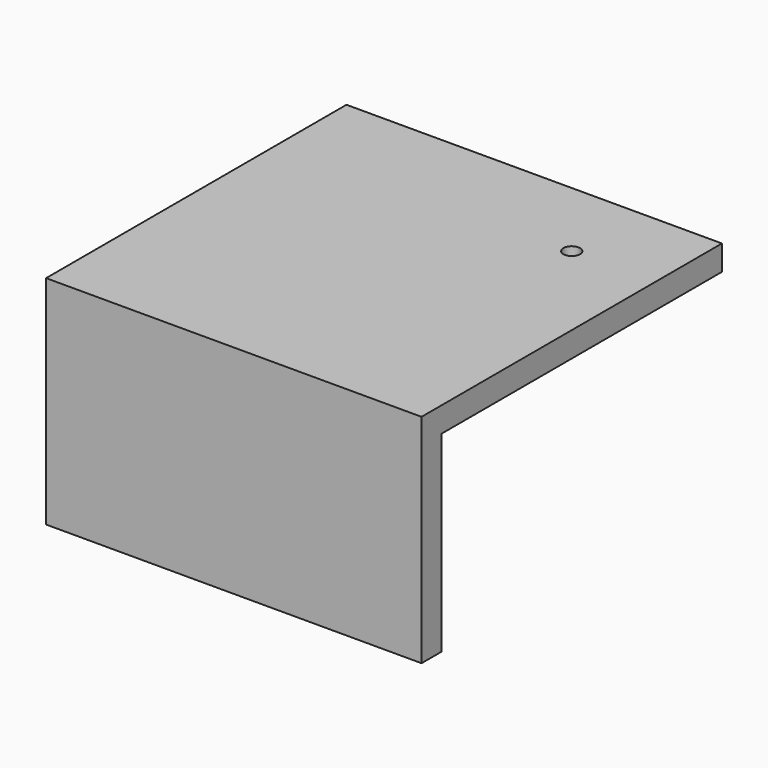
from build123d import *

# Parameters (mm, degrees)
SKETCH001_W  = 42
SKETCH001_H  = 42
PAD001_DEPTH = 26
SKETCH_W     = 45
SKETCH_H     = 45
PAD_DEPTH    = 26
SKETCH002_R  = 1
POCKET_DEPTH = 26.001


with BuildPart() as obj1:
    # Sketch001 → Pad001 (new body)
    with BuildSketch(Plane.XY):
        with Locations((21, 21)):
            Rectangle(SKETCH001_W, SKETCH001_H)
    extrude(amount=PAD001_DEPTH)


with BuildPart() as obj1_1:
    # Body001 placement: moved
    add(obj1.part.moved(Location((3, 3, -3))))


with BuildPart() as obj2:
    # Sketch → Pad (new body)
    with BuildSketch(Plane.XY):
        with Locations((22.5, 22.5)):
            Rectangle(SKETCH_W, SKETCH_H)
    extrude(amount=PAD_DEPTH)

    # Boolean: cut obj1
    add(obj1_1.part, mode=Mode.SUBTRACT)

    # Sketch002 (on Face6 of Boolean) → Pocket (cut, through all)
    with BuildSketch(Plane.XY.offset(26)):
        with Locations((35, 35)):
            Circle(SKETCH002_R)
    extrude(amount=-POCKET_DEPTH, mode=Mode.SUBTRACT)


solid = obj2.part
